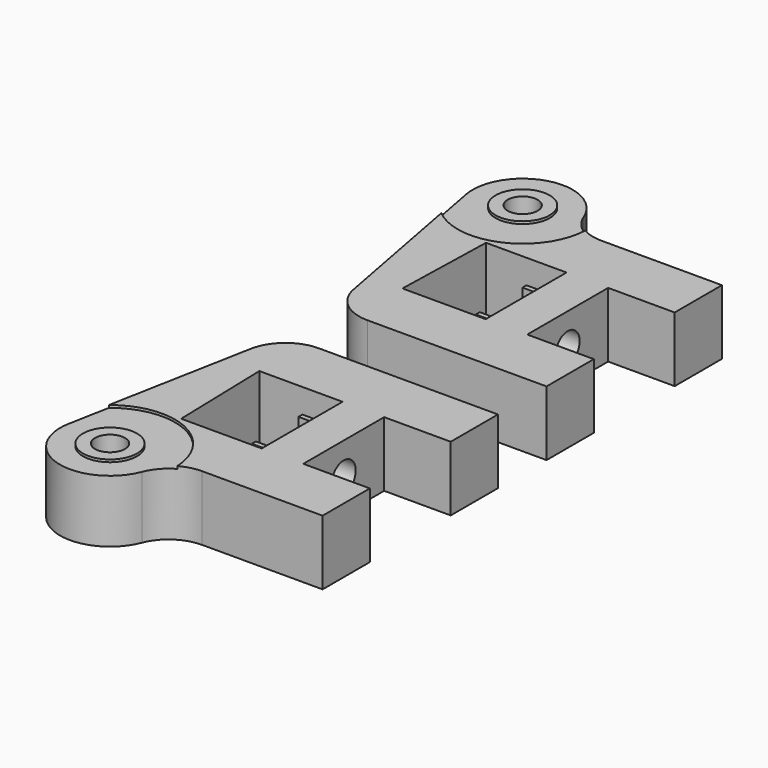
from build123d import *

# Parameters (mm, degrees)
F0_R      = 1.8
F1_DEPTH  = 7.8
F2_R      = 5
F3_R      = 1.8
F4_DEPTH  = 6
F5_W      = 6.4
F5_H      = 0.6
F6_DEPTH  = 3
F9_R      = 3.25
F10_DEPTH = 0.3


with BuildPart() as f1:
    # F0 (on Top) → F1 (new body)
    with BuildSketch(Plane.XY):
        with BuildLine():
            Line((23, 0), (8.496951, 0))
            ThreePointArc((8.496951, 0), (5.67657, 0.871386), (3.839246, 3.181818))
            ThreePointArc((3.839246, 3.181818), (-3.404953, 6.767246), (-7.645701, -0.11387))
            Line((-7.645701, -0.11387), (-2.688929, -26.35))
            Line((-2.688929, -26.35), (-0.188929, -26.35))
            Line((-0.188929, -26.35), (23, -26.35))
            Line((23, -26.35), (23, -19.25))
            Line((23, -19.25), (15, -19.25))
            Line((15, -19.25), (15, -7.1))
            Line((15, -7.1), (23, -7.1))
            Line((23, -7.1), (23, 0))
        make_face()
        Polygon((0, -19.25), (0.323308, -7.1), (10, -7.1), (10, -19.25), align=None, mode=Mode.SUBTRACT)
        with Locations((-1.75, 1)):
            Circle(F0_R, mode=Mode.SUBTRACT)
    extrude(amount=F1_DEPTH)

    # F2
    f2_edges = [f1.edges().sort_by_distance(p)[0] for p in [
        (-2.688929, -26.35, 3.9),
    ]]
    fillet(f2_edges, radius=F2_R)

    # F3 (on face) → F4 (cut)
    with BuildSketch(Plane.YZ.offset(15)):
        with Locations((-13.175, 3.9)):
            Circle(F3_R)
    extrude(amount=-F4_DEPTH, mode=Mode.SUBTRACT)

    # F5 (on face) → F6 (join)
    with BuildSketch(Plane(origin=(10, 0, 0), x_dir=(0, -1, 0), z_dir=(-1, 0, 0))):
        Polygon((9.375, 0), (9.975, 0), (9.975, 0.6), (9.975, 6.4), (9.375, 6.4), align=None)
        Polygon((16.375, 0.6), (16.375, 0), (16.975, 0), (16.975, 6.4), (16.375, 6.4), align=None)
        with Locations((13.175, 0.3)):
            Rectangle(F5_W, F5_H)
    extrude(amount=F6_DEPTH)

    # F9 (on face) → F10 (cut)
    with BuildSketch(Plane.XY.offset(7.8)):
        with BuildLine():
            Line((-7.645701, -0.11387), (-6.718189, -5.023179))
            ThreePointArc((-6.718189, -5.023179), (1.415732, -6.137208), (6.049485, 0.639964))
            ThreePointArc((6.049485, 0.639964), (4.723873, 1.719164), (3.839246, 3.181818))
            ThreePointArc((3.839246, 3.181818), (-3.404953, 6.767246), (-7.645701, -0.11387))
        make_face()
        with Locations((-1.75, 1)):
            Circle(F9_R, mode=Mode.SUBTRACT)
    extrude(amount=-F10_DEPTH, mode=Mode.SUBTRACT)


with BuildPart() as f8_1:
    # F8: instance of F1
    add(f1.part.mirror(Plane.XZ.offset(30)))


with BuildPart() as f12_1:
    # F12: instance of F1
    add(f1.part.mirror(Plane.XZ.offset(30)))


solid = Compound([f1.part, f12_1.part])
